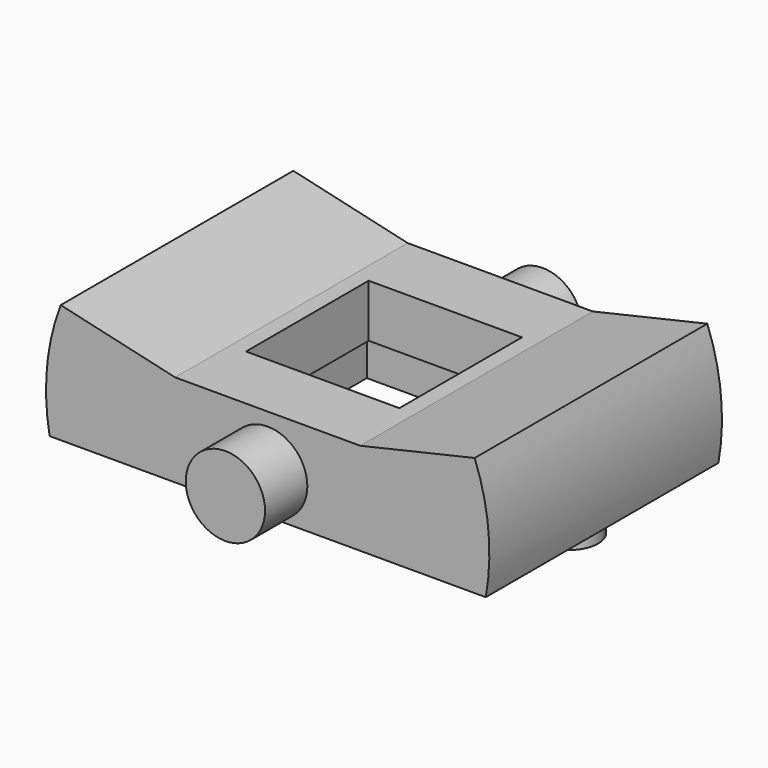
from build123d import *

# Parameters (mm, degrees)
PAD009_DEPTH         = 5.5
SKETCH015_R          = 1.5
PAD010_DEPTH         = 7.5
SKETCH016_W          = 5.8
SKETCH016_H          = 5.8
POCKET005_DEPTH      = 1.501
POCKET005_DEPTH_BACK = 3.001
SKETCH019_W          = 6.5
SKETCH019_H          = 6.5
POCKET006_DEPTH      = 1.501
SKETCH017_R          = 1.1
PAD011_DEPTH         = 2


with BuildPart() as part:
    # Sketch014 → Pad009 (new body, symmetric)
    with BuildSketch(Plane.XZ):
        with BuildLine():
            ThreePointArc((14.36977, 3), (13.850991, 0.778814), (13.95, -1.5))
            Line((13.95, -1.5), (30.45, -1.5))
            ThreePointArc((30.45, -1.5), (30.549009, 0.778814), (30.03023, 3))
            Line((30.03023, 3), (25.7, 2))
            Line((18.7, 2), (25.7, 2))
            Line((14.36977, 3), (18.7, 2))
        make_face()
    extrude(amount=PAD009_DEPTH, both=True)

    # Sketch015 → Pad010 (join, symmetric)
    with BuildSketch(Plane.XZ):
        with Locations((22.2, 0)):
            Circle(SKETCH015_R)
    extrude(amount=PAD010_DEPTH, both=True)

    # Sketch016 → Pocket005 (cut, two sides)
    with BuildSketch(Plane.XY) as pocket005_sk:
        with Locations((22.2, 0)):
            Rectangle(SKETCH016_W, SKETCH016_H)
    extrude(amount=-POCKET005_DEPTH, mode=Mode.SUBTRACT)
    extrude(pocket005_sk.sketch, amount=POCKET005_DEPTH_BACK, mode=Mode.SUBTRACT)

    # Sketch019 → Pocket006 (cut, through all)
    with BuildSketch(Plane.XY):
        with Locations((22.2, 0)):
            Rectangle(SKETCH019_W, SKETCH019_H)
    extrude(amount=-POCKET006_DEPTH, mode=Mode.SUBTRACT)

    # Sketch017 → Pad011 (join)
    with BuildSketch(Plane.XY):
        with Locations((15.2, 0)):
            Circle(SKETCH017_R)
        with Locations((29.2, 0)):
            Circle(SKETCH017_R)
    extrude(amount=-PAD011_DEPTH)


with BuildPart() as part_1:
    # Body005 placement: moved
    add(part.part.moved(Location((0, 32.5, 8.5))))


solid = part_1.part
